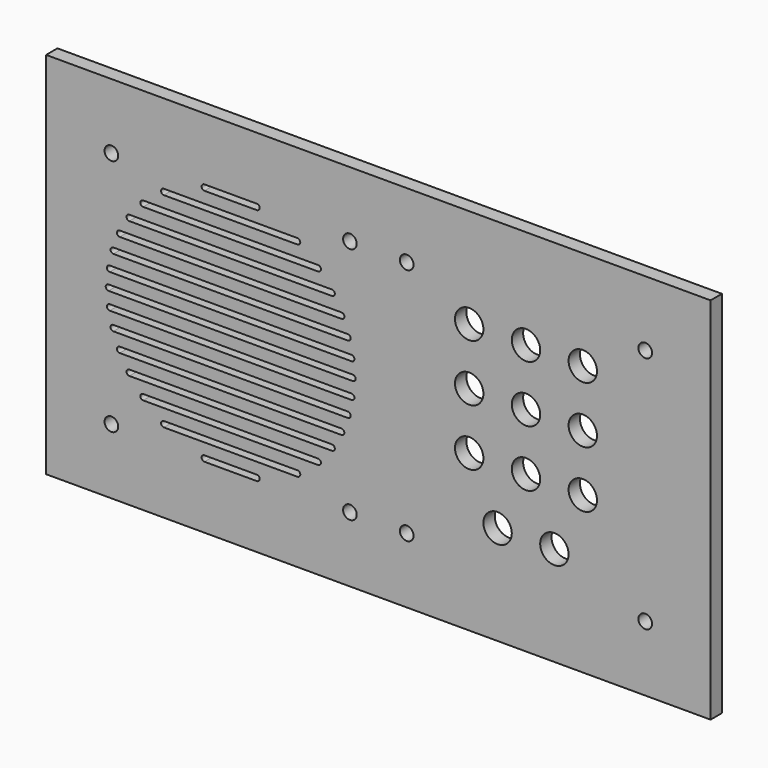
from build123d import *

# Parameters (mm, degrees)
SKETCH_W      = 234
SKETCH_H      = 130
PAD_DEPTH     = 5
SKETCH002_R   = 2.4
SKETCH002_R_2 = 5
POCKET_DEPTH  = 5


with BuildPart() as part:
    # Sketch → Pad (new body)
    with BuildSketch(Plane.XZ):
        Rectangle(SKETCH_W, SKETCH_H)
    extrude(amount=PAD_DEPTH)

    # Sketch002 → Pocket (cut)
    with BuildSketch(Plane.XZ.offset(5)):
        with Locations((-94, 42)):
            Circle(SKETCH002_R)
        with Locations((-10, 42)):
            Circle(SKETCH002_R)
        with Locations((-10, -42)):
            Circle(SKETCH002_R)
        with Locations((-94, -42)):
            Circle(SKETCH002_R)
        with Locations((94, 42)):
            Circle(SKETCH002_R)
        with Locations((10, 42)):
            Circle(SKETCH002_R)
        with Locations((94, -42)):
            Circle(SKETCH002_R)
        with Locations((10, -42)):
            Circle(SKETCH002_R)
        with Locations((32, 30)):
            Circle(SKETCH002_R_2)
        with Locations((52, 30)):
            Circle(SKETCH002_R_2)
        with Locations((72, 30)):
            Circle(SKETCH002_R_2)
        with Locations((32, 10)):
            Circle(SKETCH002_R_2)
        with Locations((52, 10)):
            Circle(SKETCH002_R_2)
        with Locations((72, 10)):
            Circle(SKETCH002_R_2)
        with Locations((72, -10)):
            Circle(SKETCH002_R_2)
        with Locations((52, -10)):
            Circle(SKETCH002_R_2)
        with Locations((32, -10)):
            Circle(SKETCH002_R_2)
        with Locations((42, -30)):
            Circle(SKETCH002_R_2)
        with Locations((62, -30)):
            Circle(SKETCH002_R_2)
        with BuildLine():
            ThreePointArc((-93.291646, 13), (-94.291646, 12), (-93.291646, 11))
            Line((-93.291646, 11), (-10.708354, 11))
            ThreePointArc((-10.708354, 11), (-9.708354, 12), (-10.708354, 13))
            Line((-93.291646, 13), (-10.708354, 13))
        make_face()
        with BuildLine():
            ThreePointArc((-75.515952, 37), (-76.515952, 36), (-75.515952, 35))
            Line((-75.515952, 35), (-28.484048, 35))
            ThreePointArc((-28.484048, 35), (-27.484048, 36), (-28.484048, 37))
            Line((-75.515952, 37), (-28.484048, 37))
        make_face()
        with BuildLine():
            ThreePointArc((-82.805844, 31), (-83.805844, 30), (-82.805844, 29))
            Line((-82.805844, 29), (-21.194156, 29))
            ThreePointArc((-21.194156, 29), (-20.194156, 30), (-21.194156, 31))
            Line((-82.805844, 31), (-21.194156, 31))
        make_face()
        with BuildLine():
            ThreePointArc((-87.679126, 25), (-88.679126, 24), (-87.679126, 23))
            Line((-87.679126, 23), (-16.320874, 23))
            ThreePointArc((-16.320874, 23), (-15.320874, 24), (-16.320874, 25))
            Line((-87.679126, 25), (-16.320874, 25))
        make_face()
        with BuildLine():
            ThreePointArc((-91.051248, 19), (-92.051248, 18), (-91.051248, 17))
            Line((-91.051248, 17), (-12.948752, 17))
            ThreePointArc((-12.948752, 17), (-11.948752, 18), (-12.948752, 19))
            Line((-91.051248, 19), (-12.948752, 19))
        make_face()
        with BuildLine():
            ThreePointArc((-95, 1), (-96, 0), (-95, -1))
            Line((-95, -1), (-9, -1))
            ThreePointArc((-9, -1), (-8, 0), (-9, 1))
            Line((-95, 1), (-9, 1))
        make_face()
        with BuildLine():
            ThreePointArc((-94.579338, 7), (-95.579338, 6), (-94.579338, 5))
            Line((-94.579338, 5), (-9.420662, 5))
            ThreePointArc((-9.420662, 5), (-8.420662, 6), (-9.420662, 7))
            Line((-94.579338, 7), (-9.420662, 7))
        make_face()
        with BuildLine():
            ThreePointArc((-61.219544, 43), (-62.219544, 42), (-61.219544, 41))
            Line((-61.219544, 41), (-42.780456, 41))
            ThreePointArc((-42.780456, 41), (-41.780456, 42), (-42.780456, 43))
            Line((-61.219544, 43), (-42.780456, 43))
        make_face()
        with BuildLine():
            ThreePointArc((-61.219544, -41), (-62.219544, -42), (-61.219544, -43))
            Line((-61.219544, -43), (-42.780456, -43))
            ThreePointArc((-42.780456, -43), (-41.780456, -42), (-42.780456, -41))
            Line((-61.219544, -41), (-42.780456, -41))
        make_face()
        with BuildLine():
            ThreePointArc((-75.515952, -35), (-76.515952, -36), (-75.515952, -37))
            Line((-75.515952, -37), (-28.484048, -37))
            ThreePointArc((-28.484048, -37), (-27.484048, -36), (-28.484048, -35))
            Line((-75.515952, -35), (-28.484048, -35))
        make_face()
        with BuildLine():
            ThreePointArc((-82.805844, -29), (-83.805844, -30), (-82.805844, -31))
            Line((-82.805844, -31), (-21.194156, -31))
            ThreePointArc((-21.194156, -31), (-20.194156, -30), (-21.194156, -29))
            Line((-82.805844, -29), (-21.194156, -29))
        make_face()
        with BuildLine():
            ThreePointArc((-87.679126, -23), (-88.679126, -24), (-87.679126, -25))
            Line((-87.679126, -25), (-16.320874, -25))
            ThreePointArc((-16.320874, -25), (-15.320874, -24), (-16.320874, -23))
            Line((-87.679126, -23), (-16.320874, -23))
        make_face()
        with BuildLine():
            ThreePointArc((-91.051248, -17), (-92.051248, -18), (-91.051248, -19))
            Line((-91.051248, -19), (-12.948752, -19))
            ThreePointArc((-12.948752, -19), (-11.948752, -18), (-12.948752, -17))
            Line((-91.051248, -17), (-12.948752, -17))
        make_face()
        with BuildLine():
            ThreePointArc((-93.291646, -11), (-94.291646, -12), (-93.291646, -13))
            Line((-93.291646, -13), (-10.708354, -13))
            ThreePointArc((-10.708354, -13), (-9.708354, -12), (-10.708354, -11))
            Line((-93.291646, -11), (-10.708354, -11))
        make_face()
        with BuildLine():
            ThreePointArc((-94.579338, -5), (-95.579338, -6), (-94.579338, -7))
            Line((-94.579338, -7), (-9.420662, -7))
            ThreePointArc((-9.420662, -7), (-8.420662, -6), (-9.420662, -5))
            Line((-94.579338, -5), (-9.420662, -5))
        make_face()
    extrude(amount=-POCKET_DEPTH, mode=Mode.SUBTRACT)


solid = part.part
